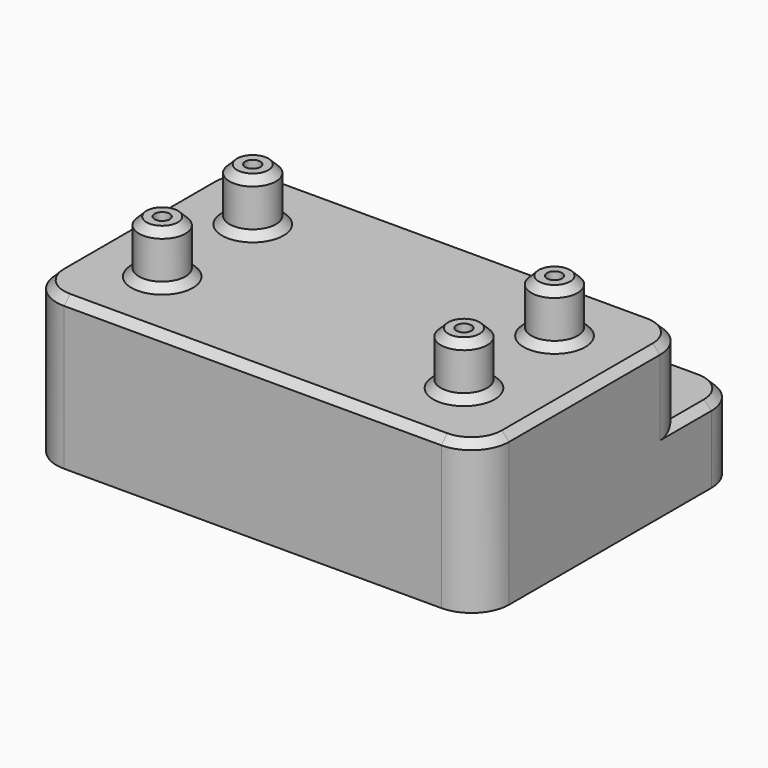
from build123d import *

# Parameters (mm, degrees)
F0_W     = 60
F0_H     = 43.5
F0_R     = 3.075
F1_DEPTH = 20
F0_R_2   = 1
F2_DEPTH = 27
F3_W     = 60
F3_H     = 8.5
F4_DEPTH = 10
F5_R     = 5
F6_SIZE  = 1


with BuildPart() as f1:
    # F0 (on Top) → F1 (new body)
    with BuildSketch(Plane.XY):
        with Locations((30, 21.75)):
            Rectangle(F0_W, F0_H)
        with Locations((10, 10)):
            Circle(F0_R, mode=Mode.SUBTRACT)
        with Locations((50, 10)):
            Circle(F0_R, mode=Mode.SUBTRACT)
        with Locations((10, 25)):
            Circle(F0_R, mode=Mode.SUBTRACT)
        with Locations((50, 25)):
            Circle(F0_R, mode=Mode.SUBTRACT)
    extrude(amount=F1_DEPTH)

    # F0 (on Top) → F2 (join)
    with BuildSketch(Plane.XY):
        with Locations((10, 25)):
            Circle(F0_R)
        with Locations((10, 25)):
            Circle(F0_R_2, mode=Mode.SUBTRACT)
        with Locations((10, 10)):
            Circle(F0_R)
        with Locations((10, 10)):
            Circle(F0_R_2, mode=Mode.SUBTRACT)
        with Locations((50, 10)):
            Circle(F0_R)
        with Locations((50, 10)):
            Circle(F0_R_2, mode=Mode.SUBTRACT)
        with Locations((50, 25)):
            Circle(F0_R)
        with Locations((50, 25)):
            Circle(F0_R_2, mode=Mode.SUBTRACT)
    extrude(amount=F2_DEPTH)

    # F3 (on face) → F4 (cut)
    with BuildSketch(Plane.XY.offset(20)):
        with Locations((30, 39.25)):
            Rectangle(F3_W, F3_H)
    extrude(amount=-F4_DEPTH, mode=Mode.SUBTRACT)

    # F5
    f5_edges = [f1.edges().sort_by_distance(p)[0] for p in [
        (60, 0, 10),
        (0, 0, 10),
        (60, 43.5, 5),
        (60, 35, 15),
        (0, 35, 15),
        (0, 43.5, 5),
    ]]
    fillet(f5_edges, radius=F5_R)

    # F6
    f6_edges = [f1.edges().sort_by_distance(p)[0] for p in [
        (30, 35, 20),
        (1.464466, 33.535534, 20),
        (58.535534, 33.535534, 20),
        (0, 17.5, 20),
        (60, 17.5, 20),
        (1.464466, 1.464466, 20),
        (58.535534, 1.464466, 20),
        (30, 0, 20),
        (6.925, 10, 20),
        (46.925, 10, 20),
        (6.925, 25, 20),
        (46.925, 25, 20),
        (6.925, 10, 27),
        (6.925, 25, 27),
        (46.925, 25, 27),
        (46.925, 10, 27),
        (30, 43.5, 10),
        (58.535534, 42.035534, 10),
    ]]
    chamfer(f6_edges, length=F6_SIZE)


solid = f1.part
